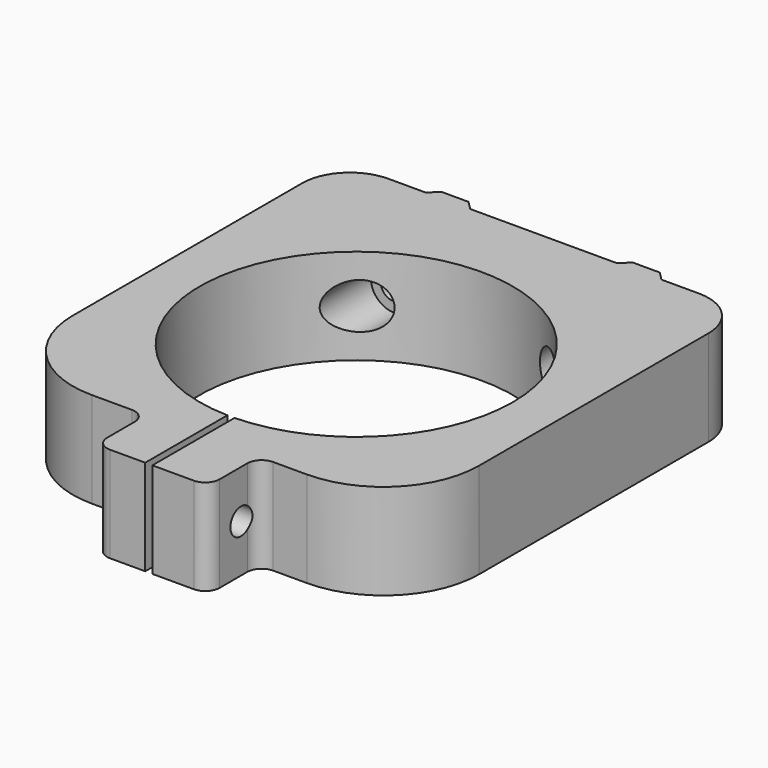
from build123d import *

# Parameters (mm, degrees)
F1_DEPTH  = 10
F2_R      = 32.77
F3_DEPTH  = 10
F4_W      = 0.75
F4_H      = 80
F5_DEPTH  = 10
F6_R      = 2.7597283283
F7_DEPTH  = 25
F8_R      = 2.75
F9_DEPTH  = 17.9
F11_START = -14.2
F10_R     = 4.7926746231
F11_DEPTH = 15.7


with BuildPart() as f1:
    # F0 (on Top) → F1 (new body, symmetric)
    with BuildSketch(Plane.XY):
        with BuildLine():
            Line((-24.64, 44.1455395274), (-32.5, 44.1455395274))
            ThreePointArc((-32.5, 44.1455395274), (-39.5710678119, 41.2166073393), (-42.5, 34.1455395274))
            Line((-42.5, 34.1455395274), (-42.5, 0))
            Line((-42.5, 0), (-42.5, -25.8544604726))
            ThreePointArc((-42.5, -25.8544604726), (-36.6421356237, -39.9965960963), (-22.5, -45.8544604726))
            Line((-22.5, -45.8544604726), (-14.1281768916, -45.8544604726))
            ThreePointArc((-14.1281768916, -45.8544604726), (-12.0068565481, -46.733140129), (-11.1281768916, -48.8544604726))
            Line((-11.1281768916, -48.8544604726), (-11.1281768916, -56.0960675753))
            ThreePointArc((-11.1281768916, -56.0960675753), (-10.2494972352, -58.2173879188), (-8.1281768916, -59.0960675753))
            Line((-8.1281768916, -59.0960675753), (9.4094926704, -59.0960675753))
            ThreePointArc((9.4094926704, -59.0960675753), (11.530813014, -58.2173879188), (12.4094926704, -56.0960675753))
            Line((12.4094926704, -56.0960675753), (12.4094926704, -48.8544604726))
            ThreePointArc((12.4094926704, -48.8544604726), (13.2881723269, -46.733140129), (15.4094926704, -45.8544604726))
            Line((15.4094926704, -45.8544604726), (22.5, -45.8544604726))
            ThreePointArc((22.5, -45.8544604726), (36.6421356237, -39.9965960963), (42.5, -25.8544604726))
            Line((42.5, -25.8544604726), (42.5, 0))
            Line((42.5, 0), (42.5, 34.1455395274))
            ThreePointArc((42.5, 34.1455395274), (39.5710678119, 41.2166073393), (32.5, 44.1455395274))
            Line((32.5, 44.1455395274), (24.64, 44.1455395274))
            Line((24.64, 44.1455395274), (15.36, 44.1455395274))
            Line((15.36, 44.1455395274), (0, 44.1455395274))
            Line((0, 44.1455395274), (-15.36, 44.1455395274))
            Line((-15.36, 44.1455395274), (-20, 44.1455395274))
            Line((-20, 44.1455395274), (-24.64, 44.1455395274))
        make_face()
        Polygon((-22.84, 45.9455395274), (-24.64, 44.1455395274), (-20, 44.1455395274), (-20, 45.9455395274), align=None)
        Polygon((-20, 45.9455395274), (-20, 44.1455395274), (-15.36, 44.1455395274), (-17.16, 45.9455395274), align=None)
        Polygon((17.16, 45.9455395274), (15.36, 44.1455395274), (24.64, 44.1455395274), (22.84, 45.9455395274), (20, 45.9455395274), align=None)
    extrude(amount=F1_DEPTH, both=True)

    # F2 (on Top) → F3 (cut, symmetric)
    with BuildSketch(Plane.XY):
        with Locations((0, -4.8544604726)):
            Circle(F2_R)
    extrude(amount=F3_DEPTH, both=True, mode=Mode.SUBTRACT)

    # F4 (on Top) → F5 (cut, symmetric)
    with BuildSketch(Plane.XY):
        with Locations((0.375, -40)):
            Rectangle(F4_W, F4_H)
        with Locations((-0.375, -40)):
            Rectangle(F4_W, F4_H)
    extrude(amount=F5_DEPTH, both=True, mode=Mode.SUBTRACT)

    # F6 (on Right) → F7 (cut, symmetric)
    with BuildSketch(Plane.YZ):
        with Locations((-50.511858446, 0)):
            Circle(F6_R)
    extrude(amount=F7_DEPTH, both=True, mode=Mode.SUBTRACT)

    # F8 (on face) → F9 (cut, symmetric)
    with BuildSketch(Plane(origin=(0, 44.1455395274, 0), x_dir=(-1, 0, 0), z_dir=(0, 1, 0))):
        with Locations((20, 0)):
            Circle(F8_R)
        with Locations((-20, 0)):
            Circle(F8_R)
    extrude(amount=F9_DEPTH, both=True, mode=Mode.SUBTRACT)

    # F10 (on face) → F11 (cut)
    with BuildSketch(Plane(origin=(0, 44.1455395274, 0), x_dir=(-1, 0, 0), z_dir=(0, 1, 0)).offset(F11_START)):
        with Locations((20, 0)):
            Circle(F10_R)
        with Locations((-20, 0)):
            Circle(F10_R)
    extrude(amount=-F11_DEPTH, mode=Mode.SUBTRACT)


solid = f1.part
